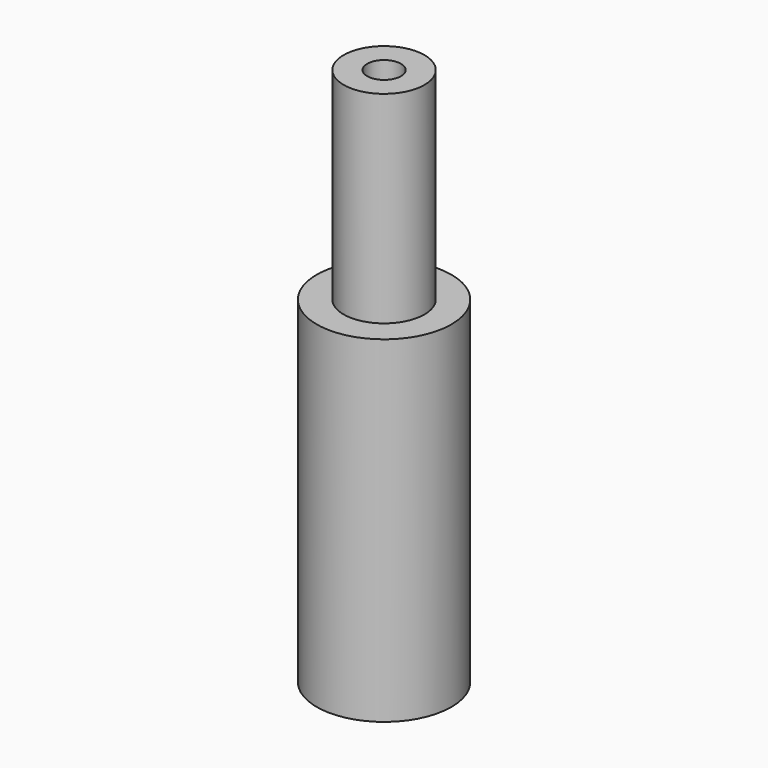
from build123d import *

# Parameters (mm, degrees)
F0_R          = 5
F0_R_2        = 3
F1_DEPTH      = 25
F0_R_3        = 1.25
F2_DEPTH      = 15
F2_DEPTH_BACK = 5


with BuildPart() as f1:
    # F0 (on Top) → F1 (new body)
    with BuildSketch(Plane.XY):
        Circle(F0_R)
        Circle(F0_R_2, mode=Mode.SUBTRACT)
    extrude(amount=-F1_DEPTH)

    # F0 (on Top) → F2 (join, two sides)
    with BuildSketch(Plane.XY) as f2_sk:
        Circle(F0_R_2)
        Circle(F0_R_3, mode=Mode.SUBTRACT)
    extrude(amount=F2_DEPTH)
    extrude(f2_sk.sketch, amount=-F2_DEPTH_BACK)


solid = f1.part
